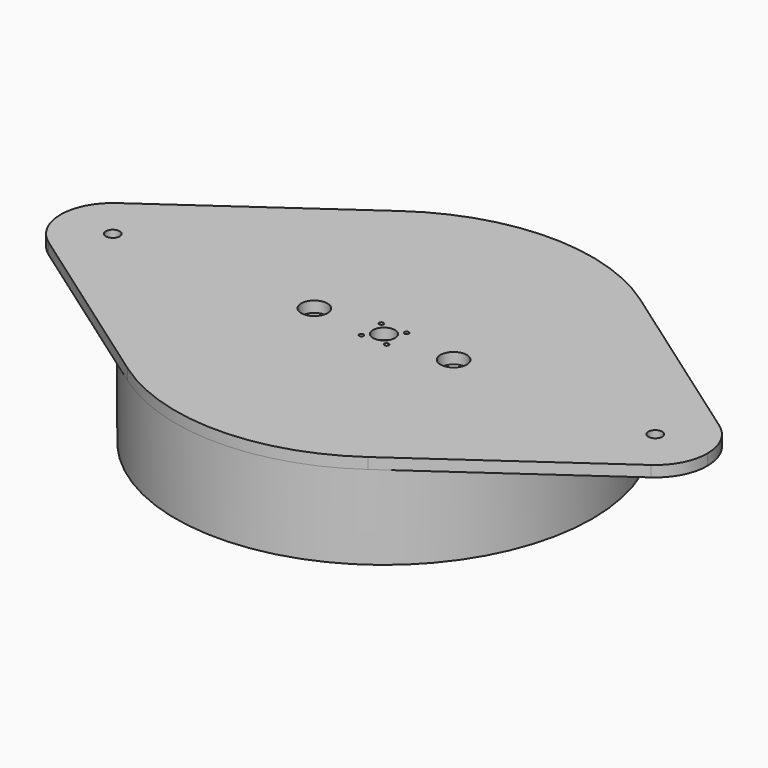
from build123d import *

# Parameters (mm, degrees)
F0_R     = 5
F0_R_2   = 3.175
F1_DEPTH = 5
F2_R     = 95
F2_R_2   = 92.5
F3_DEPTH = 38.23
F6_D     = 1.9939
F6_DEPTH = 13.58625
F6_TIP   = 0.5990279941
F7_D     = 12
F7_DEPTH = 13.59
F7_TIP   = 3.6051637142


with BuildPart() as f1:
    # F0 (on Top) → F1 (new body)
    with BuildSketch(Plane.XY):
        with BuildLine():
            ThreePointArc((54.7412050142, -77.6427747675), (84.3368676094, -43.7297697436), (95, 0))
            ThreePointArc((95, 0), (84.3368676094, 43.7297697436), (54.7412050142, 77.6427747675))
            ThreePointArc((54.7412050142, 77.6427747675), (0, 95), (-54.7412050142, 77.6427747675))
            ThreePointArc((-54.7412050142, 77.6427747675), (-95, 0), (-54.7412050142, -77.6427747675))
            ThreePointArc((-54.7412050142, -77.6427747675), (0, -95), (54.7412050142, -77.6427747675))
        make_face()
        Circle(F0_R, mode=Mode.SUBTRACT)
        with BuildLine():
            ThreePointArc((54.7412050142, 77.6427747675), (84.3368676094, 43.7297697436), (95, 0))
            ThreePointArc((95, 0), (84.3368676094, -43.7297697436), (54.7412050142, -77.6427747675))
            Line((54.7412050142, -77.6427747675), (137.3353012535, -19.4106936919))
            ThreePointArc((137.3353012535, -19.4106936919), (99.9, 0), (137.3353012535, 19.4106936919))
            Line((137.3353012535, 19.4106936919), (54.7412050142, 77.6427747675))
        make_face()
        with BuildLine():
            ThreePointArc((-54.7412050142, -77.6427747675), (-95, 0), (-54.7412050142, 77.6427747675))
            Line((-54.7412050142, 77.6427747675), (-137.3353012535, 19.4106936919))
            ThreePointArc((-137.3353012535, 19.4106936919), (-112.7175575641, 21.0842169024), (-99.9, 0))
            ThreePointArc((-99.9, 0), (-112.7175575641, -21.0842169024), (-137.3353012535, -19.4106936919))
            Line((-137.3353012535, -19.4106936919), (-54.7412050142, -77.6427747675))
        make_face()
        with BuildLine():
            ThreePointArc((147.4, 0), (144.7342169024, 10.9324424359), (137.3353012535, 19.4106936919))
            ThreePointArc((137.3353012535, 19.4106936919), (99.9, 0), (137.3353012535, -19.4106936919))
            ThreePointArc((137.3353012535, -19.4106936919), (144.7342169024, -10.9324424359), (147.4, 0))
        make_face()
        with Locations((123.65, 0)):
            Circle(F0_R_2, mode=Mode.SUBTRACT)
        with BuildLine():
            ThreePointArc((-99.9, 0), (-112.7175575641, 21.0842169024), (-137.3353012535, 19.4106936919))
            ThreePointArc((-137.3353012535, 19.4106936919), (-147.4, 0), (-137.3353012535, -19.4106936919))
            ThreePointArc((-137.3353012535, -19.4106936919), (-112.7175575641, -21.0842169024), (-99.9, 0))
        make_face()
        with Locations((-123.65, 0)):
            Circle(F0_R_2, mode=Mode.SUBTRACT)
    extrude(amount=F1_DEPTH)

    # F2 (on face) → F3 (join)
    with BuildSketch(Plane(origin=(0, 0, 0), x_dir=(1, 0, 0), z_dir=(0, 0, -1))):
        Circle(F2_R)
        Circle(F2_R_2, mode=Mode.SUBTRACT)
    extrude(amount=F3_DEPTH)

    # F6
    with Locations(Plane.XY.offset(5)):
        with Locations((-5.75, 5.75), (5.75, 5.75), (5.75, -5.75), (-5.75, -5.75)):
            Hole(F6_D / 2, depth=F6_DEPTH)
            with Locations((0, 0, -(F6_DEPTH + F6_TIP / 2))):  # 118° drill point
                Cone(0, F6_D / 2, F6_TIP, mode=Mode.SUBTRACT)

    # F7
    with Locations(Plane.XY.offset(5)):
        with Locations((-31.75, 0), (31.75, 0)):
            Hole(F7_D / 2, depth=F7_DEPTH)
            with Locations((0, 0, -(F7_DEPTH + F7_TIP / 2))):  # 118° drill point
                Cone(0, F7_D / 2, F7_TIP, mode=Mode.SUBTRACT)


solid = f1.part
